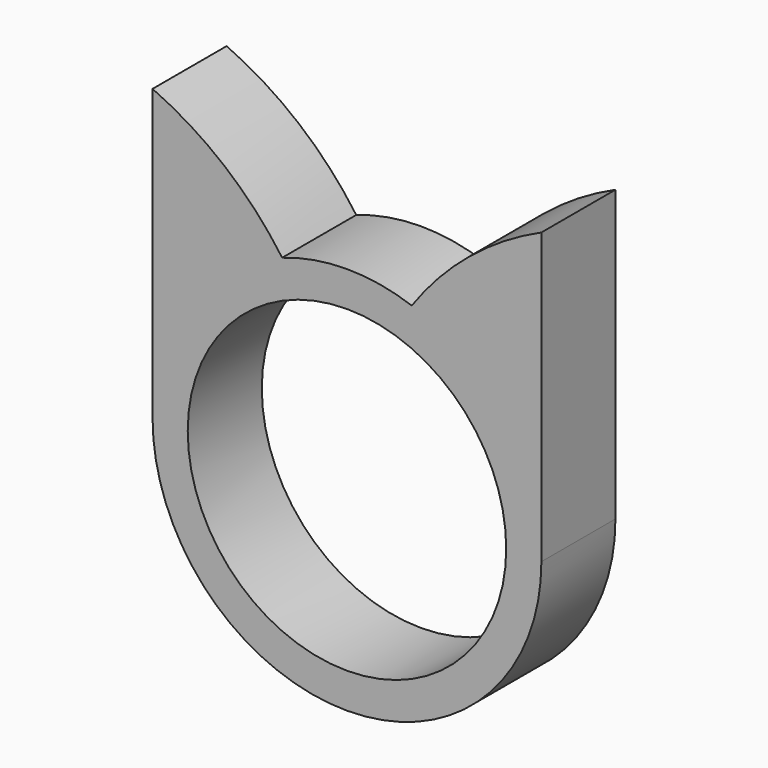
from build123d import *

# Parameters (mm, degrees)
F0_R     = 8.6
F1_DEPTH = 5


with BuildPart() as f1:
    # F0 (on Front) → F1 (new body)
    with BuildSketch(Plane.XZ):
        with BuildLine():
            Line((-10.5, 15.652476), (-10.5, 0))
            ThreePointArc((-10.5, 0), (0, -10.5), (10.5, 0))
            Line((10.5, 0), (10.5, 15.652476))
            ThreePointArc((10.5, 15.652476), (6.613118, 13.246728), (3.5, 9.899495))
            ThreePointArc((3.5, 9.899495), (0, 10.5), (-3.5, 9.899495))
            ThreePointArc((-3.5, 9.899495), (-6.613118, 13.246728), (-10.5, 15.652476))
        make_face()
        Circle(F0_R, mode=Mode.SUBTRACT)
    extrude(amount=F1_DEPTH)


solid = f1.part
